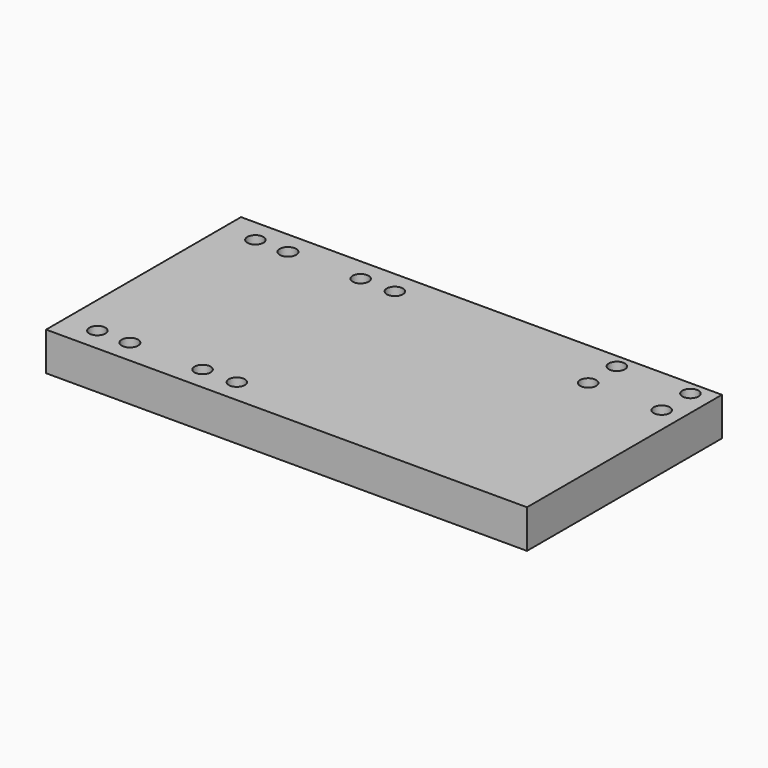
from build123d import *

# Parameters (mm, degrees)
F0_W     = 150.0124
F0_H     = 75.9968
F0_R     = 2.5019
F0_R_2   = 2.558601
F1_DEPTH = 11.9888


with BuildPart() as f1:
    # F0 (on Top) → F1 (new body)
    with BuildSketch(Plane.XY):
        Rectangle(F0_W, F0_H)
        with Locations((-64.904331, -30.620064)):
            Circle(F0_R, mode=Mode.SUBTRACT)
        with Locations((-54.76383, -30.620064)):
            Circle(F0_R_2, mode=Mode.SUBTRACT)
        with Locations((-32.081135, -30.620064)):
            Circle(F0_R, mode=Mode.SUBTRACT)
        with Locations((-21.406927, -30.620064)):
            Circle(F0_R, mode=Mode.SUBTRACT)
        with Locations((-64.762599, 30.818133)):
            Circle(F0_R, mode=Mode.SUBTRACT)
        with Locations((-54.622098, 30.818133)):
            Circle(F0_R_2, mode=Mode.SUBTRACT)
        with Locations((-31.939403, 30.818133)):
            Circle(F0_R, mode=Mode.SUBTRACT)
        with Locations((-21.265195, 30.818133)):
            Circle(F0_R, mode=Mode.SUBTRACT)
        with Locations((45.674637, 22.5044)):
            Circle(F0_R, mode=Mode.SUBTRACT)
        with Locations((68.624191, 22.5044)):
            Circle(F0_R, mode=Mode.SUBTRACT)
        with Locations((45.674637, 33.712314)):
            Circle(F0_R, mode=Mode.SUBTRACT)
        with Locations((68.624191, 33.712314)):
            Circle(F0_R, mode=Mode.SUBTRACT)
    extrude(amount=F1_DEPTH)


solid = f1.part
